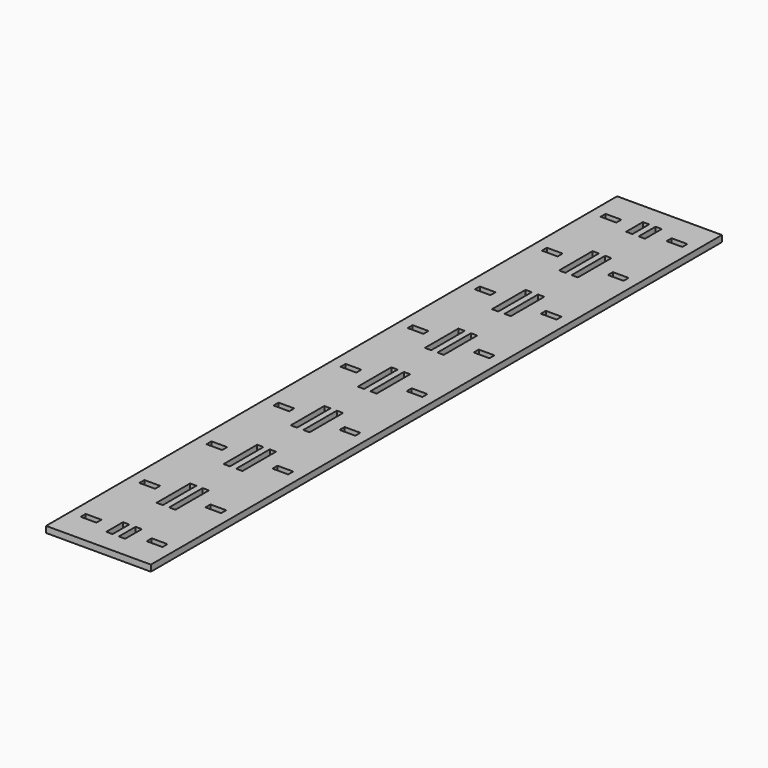
from build123d import *

# Parameters (mm, degrees)
F0_W      = 50
F0_H      = 280
F1_DEPTH  = 3
F2_W      = 3
F2_H      = 20
F3_DEPTH  = 25
F4_W      = 7.5
F4_H      = 3
F5_DEPTH  = 25
F6_W      = 50
F6_H      = 30.25
F7_DEPTH  = 3
F8_W      = 3
F8_H      = 10
F9_DEPTH  = 25
F10_W     = 7.5
F10_H     = 3
F11_DEPTH = 25


with BuildPart() as f1:
    # F0 (on Top) → F1 (new body)
    with BuildSketch(Plane.XY):
        Rectangle(F0_W, F0_H)
    extrude(amount=F1_DEPTH)

    # F2 (on face) → F3 (cut)
    with BuildSketch(Plane.XY.offset(3)):
        with Locations((3, 120)):
            Rectangle(F2_W, F2_H)
        with Locations((3, 80)):
            Rectangle(F2_W, F2_H)
        with Locations((3, 40)):
            Rectangle(F2_W, F2_H)
        with Locations((3, 0)):
            Rectangle(F2_W, F2_H)
        with Locations((3, -40)):
            Rectangle(F2_W, F2_H)
        with Locations((3, -80)):
            Rectangle(F2_W, F2_H)
        with Locations((3, -120)):
            Rectangle(F2_W, F2_H)
        with Locations((-3, 120)):
            Rectangle(F2_W, F2_H)
        with Locations((-3, 80)):
            Rectangle(F2_W, F2_H)
        with Locations((-3, 40)):
            Rectangle(F2_W, F2_H)
        with Locations((-3, 0)):
            Rectangle(F2_W, F2_H)
        with Locations((-3, -40)):
            Rectangle(F2_W, F2_H)
        with Locations((-3, -80)):
            Rectangle(F2_W, F2_H)
        with Locations((-3, -120)):
            Rectangle(F2_W, F2_H)
    extrude(amount=-F3_DEPTH, mode=Mode.SUBTRACT)

    # F4 (on face) → F5 (cut)
    with BuildSketch(Plane.XY.offset(3)):
        with Locations((15.75, 120)):
            Rectangle(F4_W, F4_H)
        with Locations((15.75, 80)):
            Rectangle(F4_W, F4_H)
        with Locations((15.75, 40)):
            Rectangle(F4_W, F4_H)
        with Locations((15.75, 0)):
            Rectangle(F4_W, F4_H)
        with Locations((15.75, -40)):
            Rectangle(F4_W, F4_H)
        with Locations((15.75, -80)):
            Rectangle(F4_W, F4_H)
        with Locations((15.75, -120)):
            Rectangle(F4_W, F4_H)
        with Locations((-15.75, 120)):
            Rectangle(F4_W, F4_H)
        with Locations((-15.75, -80)):
            Rectangle(F4_W, F4_H)
        with Locations((-15.75, 40)):
            Rectangle(F4_W, F4_H)
        with Locations((-15.75, 80)):
            Rectangle(F4_W, F4_H)
        with Locations((-15.75, -40)):
            Rectangle(F4_W, F4_H)
        with Locations((-15.75, -120)):
            Rectangle(F4_W, F4_H)
        with Locations((-15.75, 0)):
            Rectangle(F4_W, F4_H)
    extrude(amount=-F5_DEPTH, mode=Mode.SUBTRACT)

    # F6 (on face) → F7 (join)
    with BuildSketch(Plane.XY.offset(3)):
        with Locations((0, 155.125)):
            Rectangle(F6_W, F6_H)
        with Locations((0, -155.125)):
            Rectangle(F6_W, F6_H)
    extrude(amount=-F7_DEPTH)

    # F8 (on face) → F9 (cut)
    with BuildSketch(Plane.XY.offset(3)):
        with Locations((-3, 155)):
            Rectangle(F8_W, F8_H)
        with Locations((3, 155)):
            Rectangle(F8_W, F8_H)
        with Locations((3, -155)):
            Rectangle(F8_W, F8_H)
        with Locations((-3, -155)):
            Rectangle(F8_W, F8_H)
    extrude(amount=-F9_DEPTH, mode=Mode.SUBTRACT)

    # F10 (on face) → F11 (cut)
    with BuildSketch(Plane.XY.offset(3)):
        with Locations((-15.75, -155)):
            Rectangle(F10_W, F10_H)
        with Locations((15.75, -155)):
            Rectangle(F10_W, F10_H)
        with Locations((-15.75, 155)):
            Rectangle(F10_W, F10_H)
        with Locations((15.75, 155)):
            Rectangle(F10_W, F10_H)
    extrude(amount=-F11_DEPTH, mode=Mode.SUBTRACT)


solid = f1.part
